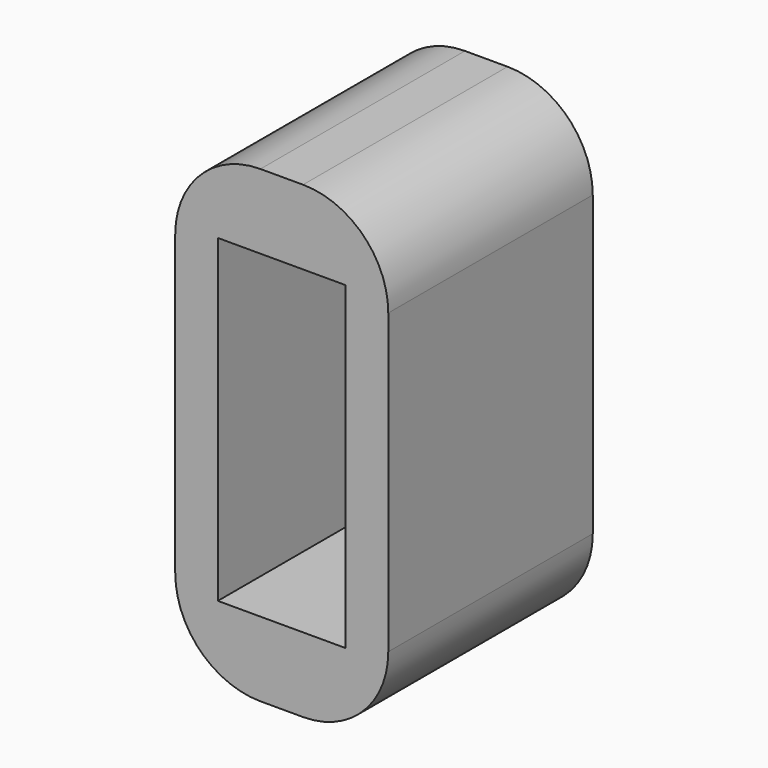
from build123d import *

# Parameters (mm, degrees)
F0_W     = 7.62
F0_H     = 19.05
F1_DEPTH = 15.24


with BuildPart() as f1:
    # F0 (on Front) → F1 (new body)
    with BuildSketch(Plane.XZ):
        with BuildLine():
            ThreePointArc((10.16, 18.415), (8.672102, 22.007102), (5.08, 23.495))
            Line((5.08, 23.495), (2.54, 23.495))
            ThreePointArc((2.54, 23.495), (-1.052102, 22.007102), (-2.54, 18.415))
            Line((-2.54, 18.415), (-2.54, 0.635))
            ThreePointArc((-2.54, 0.635), (-1.052102, -2.957102), (2.54, -4.445))
            Line((2.54, -4.445), (5.08, -4.445))
            ThreePointArc((5.08, -4.445), (8.672102, -2.957102), (10.16, 0.635))
            Line((10.16, 0.635), (10.16, 18.415))
        make_face()
        with Locations((3.81, 9.525)):
            Rectangle(F0_W, F0_H, mode=Mode.SUBTRACT)
    extrude(amount=F1_DEPTH)


solid = f1.part
